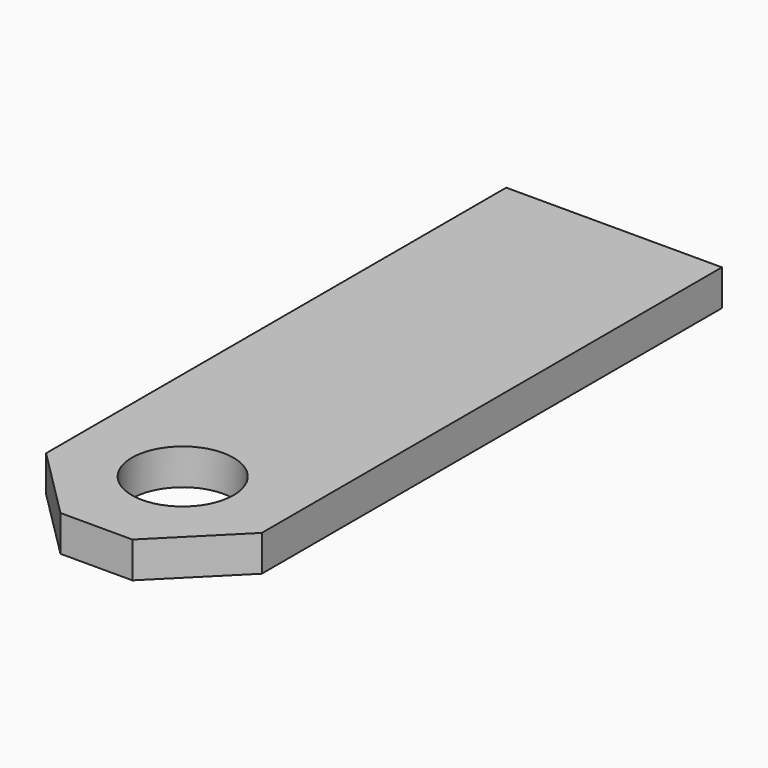
from build123d import *

# Parameters (mm, degrees)
SKETCH258_R      = 0.353553
EXTRUDE060_DEPTH = 2
EXTRUDE059_DEPTH = 0.25


with BuildPart() as extrude060:
    # Sketch258 → Extrude060 (new body)
    with BuildSketch(Plane.XY):
        with Locations((7, -3.25)):
            Circle(SKETCH258_R)
    extrude(amount=EXTRUDE060_DEPTH)


with BuildPart() as cut035:
    # Sketch257 → Extrude059 (new body)
    with BuildSketch(Plane(origin=(0.25, 0, 1), x_dir=(1, 0, 0), z_dir=(0, 0, 1))):
        Polygon((7.5, 0.5), (7.5, -3.5), (7, -4), (6.5, -4), (6, -3.5), (6, 0.5), align=None)
    extrude(amount=EXTRUDE059_DEPTH)


with BuildPart() as cut035_1:
    # Extrude059 placement: moved
    add(cut035.part.moved(Location((0, 0, -0.125))))

    # Cut035: cut Extrude060
    add(extrude060.part, mode=Mode.SUBTRACT)


solid = cut035_1.part
